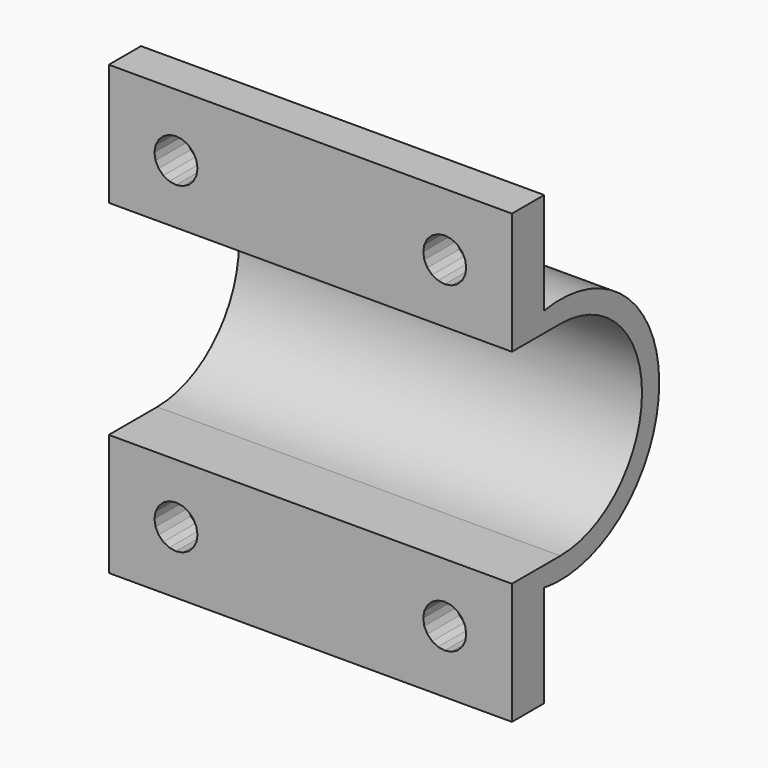
from build123d import *

# Parameters (mm, degrees)
PRISM066_DEPTH                = 10
PRISM066_PITCH_ANGLE          = 90
PRISM067_DEPTH                = 10
PRISM067_PITCH_ANGLE          = 90
PRISM068_DEPTH                = 10
PRISM068_PITCH_ANGLE          = 90
PRISM069_DEPTH                = 10
PRISM069_PITCH_ANGLE          = 90
CUBE076_W                     = 5
CUBE076_H                     = 35
CUBE076_DEPTH                 = 32
CUBE075_W                     = 16
CUBE075_H                     = 15.2
CUBE075_DEPTH                 = 30
CUBE071_W                     = 3
CUBE071_H                     = 11.7
CUBE071_DEPTH                 = 30
CUBE072_W                     = 3
CUBE072_H                     = 11.7
CUBE072_DEPTH                 = 30
CUBE073_W                     = 1.6
CUBE073_H                     = 1.6
CUBE073_DEPTH                 = 30
CUBE074_W                     = 1.6
CUBE074_H                     = 1.6
CUBE074_DEPTH                 = 30
CYLINDER019_R                 = 7.6
CYLINDER019_DEPTH             = 30
CYLINDER018_R                 = 9.2
CYLINDER018_DEPTH             = 30
DIFFERENCE048_ROLL_ANGLE      = 90
DIFFERENCE048_PLACEMENT_ANGLE = 90


with BuildPart() as prism066:
    # prism066 → prism066 (new body)
    with BuildSketch(Plane.XY):
        Polygon((1.6, 0), (1.52169, 0.494427), (1.294427, 0.940456), (0.940456, 1.294427), (0.494427, 1.52169), (0, 1.6), (-0.494427, 1.52169), (-0.940456, 1.294427), (-1.294427, 0.940456), (-1.52169, 0.494427), (-1.6, 0), (-1.52169, -0.494427), (-1.294427, -0.940456), (-0.940456, -1.294427), (-0.494427, -1.52169), (0, -1.6), (0.494427, -1.52169), (0.940456, -1.294427), (1.294427, -0.940456), (1.52169, -0.494427), align=None)
    extrude(amount=PRISM066_DEPTH)


with BuildPart() as prism066_1:
    # prism066 pitch: moved
    add(prism066.part.rotate(Axis((0, 0, 0), (0, 1, 0)), PRISM066_PITCH_ANGLE))


with BuildPart() as prism066_2:
    # prism066 placement: moved
    add(prism066_1.part.moved(Location((-10, 12, 10))))


with BuildPart() as prism067:
    # prism067 → prism067 (new body)
    with BuildSketch(Plane.XY):
        Polygon((1.6, 0), (1.52169, 0.494427), (1.294427, 0.940456), (0.940456, 1.294427), (0.494427, 1.52169), (0, 1.6), (-0.494427, 1.52169), (-0.940456, 1.294427), (-1.294427, 0.940456), (-1.52169, 0.494427), (-1.6, 0), (-1.52169, -0.494427), (-1.294427, -0.940456), (-0.940456, -1.294427), (-0.494427, -1.52169), (0, -1.6), (0.494427, -1.52169), (0.940456, -1.294427), (1.294427, -0.940456), (1.52169, -0.494427), align=None)
    extrude(amount=PRISM067_DEPTH)


with BuildPart() as prism067_1:
    # prism067 pitch: moved
    add(prism067.part.rotate(Axis((0, 0, 0), (0, 1, 0)), PRISM067_PITCH_ANGLE))


with BuildPart() as prism067_2:
    # prism067 placement: moved
    add(prism067_1.part.moved(Location((-10, 12, -10))))


with BuildPart() as prism068:
    # prism068 → prism068 (new body)
    with BuildSketch(Plane.XY):
        Polygon((1.6, 0), (1.52169, 0.494427), (1.294427, 0.940456), (0.940456, 1.294427), (0.494427, 1.52169), (0, 1.6), (-0.494427, 1.52169), (-0.940456, 1.294427), (-1.294427, 0.940456), (-1.52169, 0.494427), (-1.6, 0), (-1.52169, -0.494427), (-1.294427, -0.940456), (-0.940456, -1.294427), (-0.494427, -1.52169), (0, -1.6), (0.494427, -1.52169), (0.940456, -1.294427), (1.294427, -0.940456), (1.52169, -0.494427), align=None)
    extrude(amount=PRISM068_DEPTH)


with BuildPart() as prism068_1:
    # prism068 pitch: moved
    add(prism068.part.rotate(Axis((0, 0, 0), (0, 1, 0)), PRISM068_PITCH_ANGLE))


with BuildPart() as prism068_2:
    # prism068 placement: moved
    add(prism068_1.part.moved(Location((-10, -12, 10))))


with BuildPart() as prism069:
    # prism069 → prism069 (new body)
    with BuildSketch(Plane.XY):
        Polygon((1.6, 0), (1.52169, 0.494427), (1.294427, 0.940456), (0.940456, 1.294427), (0.494427, 1.52169), (0, 1.6), (-0.494427, 1.52169), (-0.940456, 1.294427), (-1.294427, 0.940456), (-1.52169, 0.494427), (-1.6, 0), (-1.52169, -0.494427), (-1.294427, -0.940456), (-0.940456, -1.294427), (-0.494427, -1.52169), (0, -1.6), (0.494427, -1.52169), (0.940456, -1.294427), (1.294427, -0.940456), (1.52169, -0.494427), align=None)
    extrude(amount=PRISM069_DEPTH)


with BuildPart() as prism069_1:
    # prism069 pitch: moved
    add(prism069.part.rotate(Axis((0, 0, 0), (0, 1, 0)), PRISM069_PITCH_ANGLE))


with BuildPart() as prism069_2:
    # prism069 placement: moved
    add(prism069_1.part.moved(Location((-10, -12, -10))))


with BuildPart() as cube076:
    # cube076 → cube076 (new body)
    with BuildSketch(Plane(origin=(-9.5, -17.5, -16), x_dir=(1, 0, 0), z_dir=(0, 0, 1))):
        with Locations((2.5, 17.5)):
            Rectangle(CUBE076_W, CUBE076_H)
    extrude(amount=CUBE076_DEPTH)


with BuildPart() as union036:
    # cube075 → cube075 (new body)
    with BuildSketch(Plane(origin=(-16, -7.6, -15), x_dir=(1, 0, 0), z_dir=(0, 0, 1))):
        with Locations((8, 7.6)):
            Rectangle(CUBE075_W, CUBE075_H)
    extrude(amount=CUBE075_DEPTH)

    # union036: union prism066, prism067, prism068, prism069, cube076
    add(prism066_2.part)
    add(prism067_2.part)
    add(prism068_2.part)
    add(prism069_2.part)
    add(cube076.part)


with BuildPart() as cube071:
    # cube071 → cube071 (new body)
    with BuildSketch(Plane(origin=(-4.5, 4.95, -15), x_dir=(1, 0, 0), z_dir=(0, 0, 1))):
        with Locations((1.5, 5.85)):
            Rectangle(CUBE071_W, CUBE071_H)
    extrude(amount=CUBE071_DEPTH)


with BuildPart() as cube072:
    # cube072 → cube072 (new body)
    with BuildSketch(Plane(origin=(-4.5, -16.65, -15), x_dir=(1, 0, 0), z_dir=(0, 0, 1))):
        with Locations((1.5, 5.85)):
            Rectangle(CUBE072_W, CUBE072_H)
    extrude(amount=CUBE072_DEPTH)


with BuildPart() as cube073:
    # cube073 → cube073 (new body)
    with BuildSketch(Plane(origin=(-4.6, 7.5, -15), x_dir=(1, 0, 0), z_dir=(0, 0, 1))):
        with Locations((0.8, 0.8)):
            Rectangle(CUBE073_W, CUBE073_H)
    extrude(amount=CUBE073_DEPTH)


with BuildPart() as cube074:
    # cube074 → cube074 (new body)
    with BuildSketch(Plane(origin=(-4.6, -9.1, -15), x_dir=(1, 0, 0), z_dir=(0, 0, 1))):
        with Locations((0.8, 0.8)):
            Rectangle(CUBE074_W, CUBE074_H)
    extrude(amount=CUBE074_DEPTH)


with BuildPart() as cylinder019:
    # cylinder019 → cylinder019 (new body)
    with BuildSketch(Plane.XY.offset(-15)):
        Circle(CYLINDER019_R)
    extrude(amount=CYLINDER019_DEPTH)


with BuildPart() as difference048:
    # cylinder018 → cylinder018 (new body)
    with BuildSketch(Plane.XY.offset(-15)):
        Circle(CYLINDER018_R)
    extrude(amount=CYLINDER018_DEPTH)

    # difference047: cut cylinder019
    add(cylinder019.part, mode=Mode.SUBTRACT)

    # union035: union cube071, cube072, cube073, cube074
    add(cube071.part)
    add(cube072.part)
    add(cube073.part)
    add(cube074.part)

    # difference048: cut union036
    add(union036.part, mode=Mode.SUBTRACT)


with BuildPart() as difference048_1:
    # difference048 roll: moved
    add(difference048.part.rotate(Axis((0, 0, 0), (1, 0, 0)), DIFFERENCE048_ROLL_ANGLE))


with BuildPart() as difference048_2:
    # difference048 placement: moved
    add(difference048_1.part.moved(Location((178, 252, 340))).rotate(Axis((178, 252, 340), (0, 0, 1)), DIFFERENCE048_PLACEMENT_ANGLE))


solid = difference048_2.part
